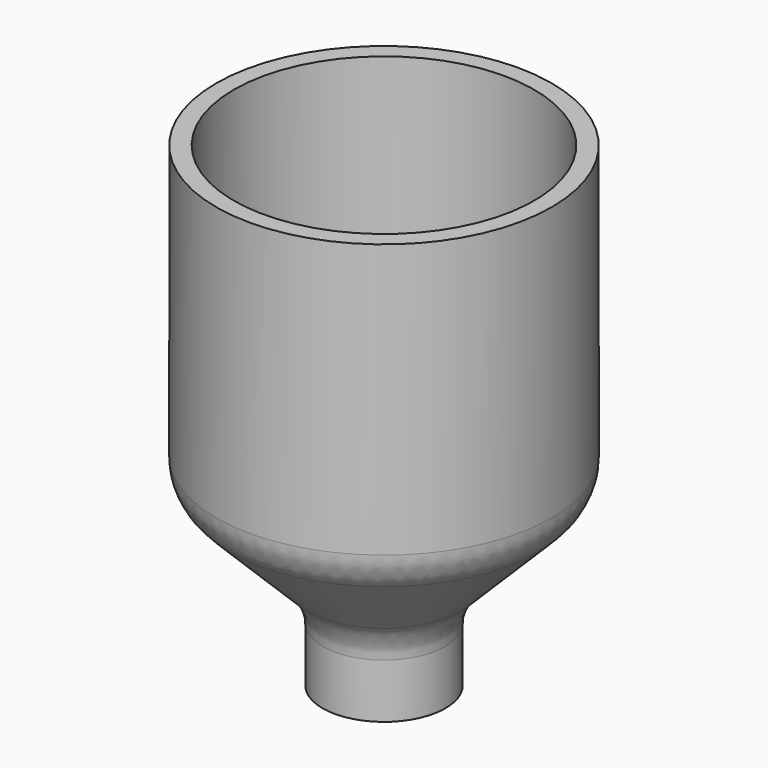
from build123d import *

# Parameters (mm, degrees)
F2_R = 12.7


with BuildPart() as f1:
    # F0 (on Front) → F1 (revolve)
    with BuildSketch(Plane.XZ):
        Polygon((-38.1, 26.9494), (-38.1, 101.6), (-42.545, 101.6), (-42.545, 26.9494), (-15.5956, 0), (-15.5956, -19.05), (-11.1506, -19.05), (-11.1506, 0), align=None)
    revolve(axis=Axis((0, 0, 22.32272), (0, 0, 1)))

    # F2
    f2_edges = [f1.edges().sort_by_distance(p)[0] for p in [
        (42.545, 0, 26.9494),
        (15.5956, 0, 0),
        (38.1, 0, 26.9494),
        (11.1506, 0, 0),
    ]]
    fillet(f2_edges, radius=F2_R)


solid = f1.part
